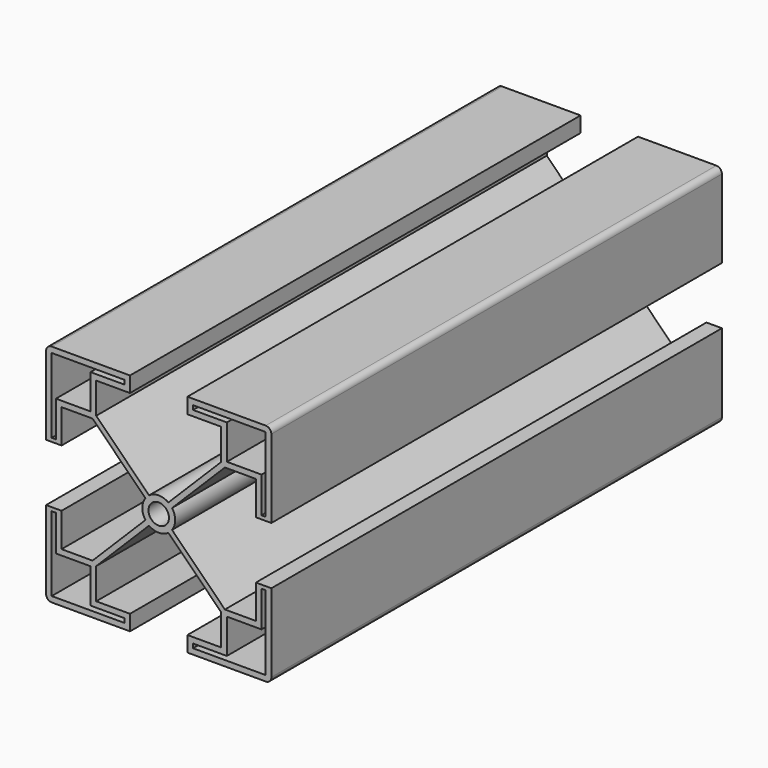
from build123d import *

# Parameters (mm, degrees)
F0_R     = 1.818025
F1_DEPTH = 100


with BuildPart() as f1:
    # F0 (on Front) → F1 (new body)
    with BuildSketch(Plane.XZ):
        with BuildLine():
            Line((-46.860419, 63.459635), (-60.760419, 63.459635))
            ThreePointArc((-60.760419, 63.459635), (-61.467526, 63.166742), (-61.760419, 62.459635))
            Line((-61.760419, 62.459635), (-61.760419, 48.559635))
            Line((-61.760419, 48.559635), (-59.010419, 48.559635))
            Line((-59.010419, 48.559635), (-59.010419, 54.559635))
            Line((-59.010419, 54.559635), (-53.510419, 54.559635))
            Line((-53.510419, 54.559635), (-44.123408, 45.172625))
            ThreePointArc((-44.123408, 45.172625), (-44.678989, 43.459635), (-44.123408, 41.746646))
            Line((-44.123408, 41.746646), (-53.510419, 32.359635))
            Line((-53.510419, 32.359635), (-59.010419, 32.359635))
            Line((-59.010419, 32.359635), (-59.010419, 38.359635))
            Line((-59.010419, 38.359635), (-61.760419, 38.359635))
            Line((-61.760419, 38.359635), (-61.760419, 24.459635))
            ThreePointArc((-61.760419, 24.459635), (-61.467526, 23.752528), (-60.760419, 23.459635))
            Line((-60.760419, 23.459635), (-46.860419, 23.459635))
            Line((-46.860419, 23.459635), (-46.860419, 26.209635))
            Line((-46.860419, 26.209635), (-52.860419, 26.209635))
            Line((-52.860419, 26.209635), (-52.860419, 31.709635))
            Line((-52.860419, 31.709635), (-43.473408, 41.096646))
            ThreePointArc((-43.473408, 41.096646), (-41.760419, 40.541065), (-40.047429, 41.096646))
            Line((-40.047429, 41.096646), (-30.660419, 31.709635))
            Line((-30.660419, 31.709635), (-30.660419, 26.209635))
            Line((-30.660419, 26.209635), (-36.660419, 26.209635))
            Line((-36.660419, 26.209635), (-36.660419, 23.459635))
            Line((-36.660419, 23.459635), (-22.760419, 23.459635))
            ThreePointArc((-22.760419, 23.459635), (-22.053312, 23.752528), (-21.760419, 24.459635))
            Line((-21.760419, 24.459635), (-21.760419, 38.359635))
            Line((-21.760419, 38.359635), (-24.510419, 38.359635))
            Line((-24.510419, 38.359635), (-24.510419, 32.359635))
            Line((-24.510419, 32.359635), (-30.010419, 32.359635))
            Line((-30.010419, 32.359635), (-39.397429, 41.746646))
            ThreePointArc((-39.397429, 41.746646), (-38.841848, 43.459635), (-39.397429, 45.172625))
            Line((-39.397429, 45.172625), (-30.010419, 54.559635))
            Line((-30.010419, 54.559635), (-24.510419, 54.559635))
            Line((-24.510419, 54.559635), (-24.510419, 48.559635))
            Line((-24.510419, 48.559635), (-21.760419, 48.559635))
            Line((-21.760419, 48.559635), (-21.760419, 62.459635))
            ThreePointArc((-21.760419, 62.459635), (-22.053312, 63.166742), (-22.760419, 63.459635))
            Line((-22.760419, 63.459635), (-36.660419, 63.459635))
            Line((-36.660419, 63.459635), (-36.660419, 60.709635))
            Line((-36.660419, 60.709635), (-30.660419, 60.709635))
            Line((-30.660419, 60.709635), (-30.660419, 55.209635))
            Line((-30.660419, 55.209635), (-40.047429, 45.822625))
            ThreePointArc((-40.047429, 45.822625), (-41.760419, 46.378205), (-43.473408, 45.822625))
            Line((-43.473408, 45.822625), (-52.860419, 55.209635))
            Line((-52.860419, 55.209635), (-52.860419, 60.709635))
            Line((-52.860419, 60.709635), (-46.860419, 60.709635))
            Line((-46.860419, 60.709635), (-46.860419, 63.459635))
        make_face()
        Polygon((-60.760419, 37.724261), (-60.010419, 37.724261), (-60.010419, 31.359635), (-53.860419, 31.359635), (-53.860419, 25.209635), (-47.860419, 25.209635), (-47.860419, 24.459635), (-53.860419, 24.459635), (-60.760419, 24.459635), (-60.760419, 31.359635), align=None, mode=Mode.SUBTRACT)
        Polygon((-29.660419, 24.459635), (-35.660419, 24.459635), (-35.660419, 25.209635), (-29.660419, 25.209635), (-29.660419, 31.359635), (-23.510419, 31.359635), (-23.510419, 37.724261), (-22.760419, 37.724261), (-22.760419, 31.359635), (-22.760419, 24.459635), align=None, mode=Mode.SUBTRACT)
        with Locations((-41.760419, 43.459635)):
            Circle(F0_R, mode=Mode.SUBTRACT)
        Polygon((-60.760419, 55.559635), (-60.760419, 62.459635), (-53.860419, 62.459635), (-47.860419, 62.459635), (-47.860419, 61.709635), (-53.860419, 61.709635), (-53.860419, 55.559635), (-60.010419, 55.559635), (-60.010419, 49.195009), (-60.760419, 49.195009), align=None, mode=Mode.SUBTRACT)
        Polygon((-29.660419, 62.459635), (-22.760419, 62.459635), (-22.760419, 55.559635), (-22.760419, 49.195009), (-23.510419, 49.195009), (-23.510419, 55.559635), (-29.660419, 55.559635), (-29.660419, 61.709635), (-35.660419, 61.709635), (-35.660419, 62.459635), align=None, mode=Mode.SUBTRACT)
    extrude(amount=-F1_DEPTH)


solid = f1.part
